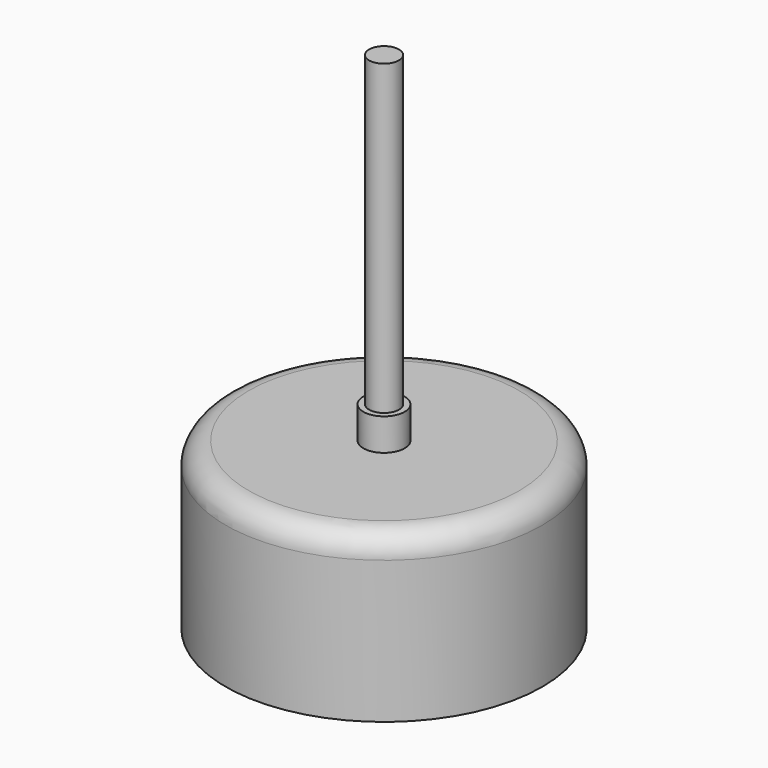
from build123d import *

# Parameters (mm, degrees)
F1_R     = 3.25
F3_DEPTH = 110
F0_R     = 34.5
F4_DEPTH = 36
F2_R     = 4.5
F5_DEPTH = 43
F6_R     = 5


with BuildPart() as f3:
    # F1 (on Top) → F3 (new body)
    with BuildSketch(Plane.XY):
        Circle(F1_R)
    extrude(amount=F3_DEPTH)

    # F0 (on Top) → F4 (join)
    with BuildSketch(Plane.XY):
        Circle(F0_R)
    extrude(amount=F4_DEPTH)

    # F2 (on Top) → F5 (join)
    with BuildSketch(Plane.XY):
        Circle(F2_R)
    extrude(amount=F5_DEPTH)

    # F6
    f6_edges = [f3.edges().sort_by_distance(p)[0] for p in [
        (-34.5, 0, 36),
    ]]
    fillet(f6_edges, radius=F6_R)


solid = f3.part
